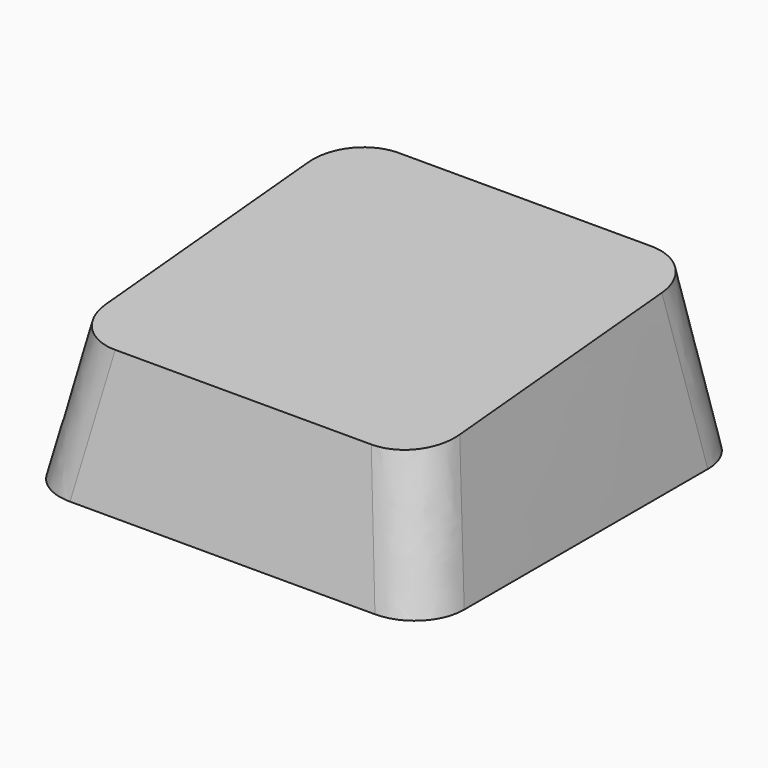
from build123d import *

# Parameters (mm, degrees)
SKETCH003_W = 16
SKETCH003_H = 16
SKETCH004_W = 14
SKETCH004_H = 14
SKETCH_W    = 14.5
SKETCH_H    = 14.1
SKETCH005_W = 12.7
SKETCH005_H = 13.1
SKETCH006_W = 1
SKETCH006_H = 3
PAD_DEPTH   = 4
FILLET_R    = 2
FILLET001_R = 1
FILLET002_R = 0.5


with BuildPart() as part:
    # Sketch003 → AdditiveLoft section 0
    with BuildSketch(Plane.XY):
        Rectangle(SKETCH003_W, SKETCH003_H)
    # Sketch004 → AdditiveLoft section 1
    with BuildSketch(Plane(origin=(0, 0, 5.8), x_dir=(1, 0, 0), z_dir=(0, -0.087156, 0.996195))):
        Rectangle(SKETCH004_W, SKETCH004_H)
    loft()

    # Sketch (on Face1 of AdditiveLoft) → SubtractiveLoft section 0
    with BuildSketch(Plane(origin=(0, 0, 0), x_dir=(1, 0, 0), z_dir=(0, 0, -1))):
        Rectangle(SKETCH_W, SKETCH_H)
    # Sketch005 → SubtractiveLoft section 1
    with BuildSketch(Plane.XY.offset(3.1)):
        Rectangle(SKETCH005_W, SKETCH005_H)
    loft(mode=Mode.SUBTRACT)

    # Sketch006 (on Face11 of SubtractiveLoft) → Pad (new body)
    with BuildSketch(Plane(origin=(0, 0, 3.1), x_dir=(1, 0, 0), z_dir=(0, 0, -1))):
        with Locations((-2.7, 0)):
            Rectangle(SKETCH006_W, SKETCH006_H)
    pad = extrude(amount=PAD_DEPTH)

    # Mirrored: Pad across Sketch006 V_Axis
    add(pad.mirror(Plane(origin=(0, 0, 3.1), x_dir=(0, 0, -1), z_dir=(1, 0, 0))))

    # Fillet
    fillet_edges = [part.edges().sort_by_distance(p)[0] for p in [
        (-7.5, -7.486681, 2.594955),
        (-7.5, 7.486681, 3.205045),
        (7.5, 7.486681, 3.205045),
        (7.5, -7.486681, 2.594955),
    ]]
    fillet(fillet_edges, radius=FILLET_R)

    # Fillet001
    fillet001_edges = [part.edges().sort_by_distance(p)[0] for p in [
        (-6.8, -6.8, 1.55),
        (-6.8, 6.8, 1.55),
        (6.8, -6.8, 1.55),
        (6.8, 6.8, 1.55),
    ]]
    fillet(fillet001_edges, radius=FILLET001_R)

    # Fillet002
    fillet002_edges = [part.edges().sort_by_distance(p)[0] for p in [
        (-3.2, 0, 3.1),
        (2.2, 0, 3.1),
        (-2.7, -1.5, 3.1),
        (2.7, -1.5, 3.1),
        (3.2, 0, 3.1),
        (-2.2, 0, 3.1),
        (2.7, 1.5, 3.1),
        (-2.7, 1.5, 3.1),
    ]]
    fillet(fillet002_edges, radius=FILLET002_R)


solid = part.part
